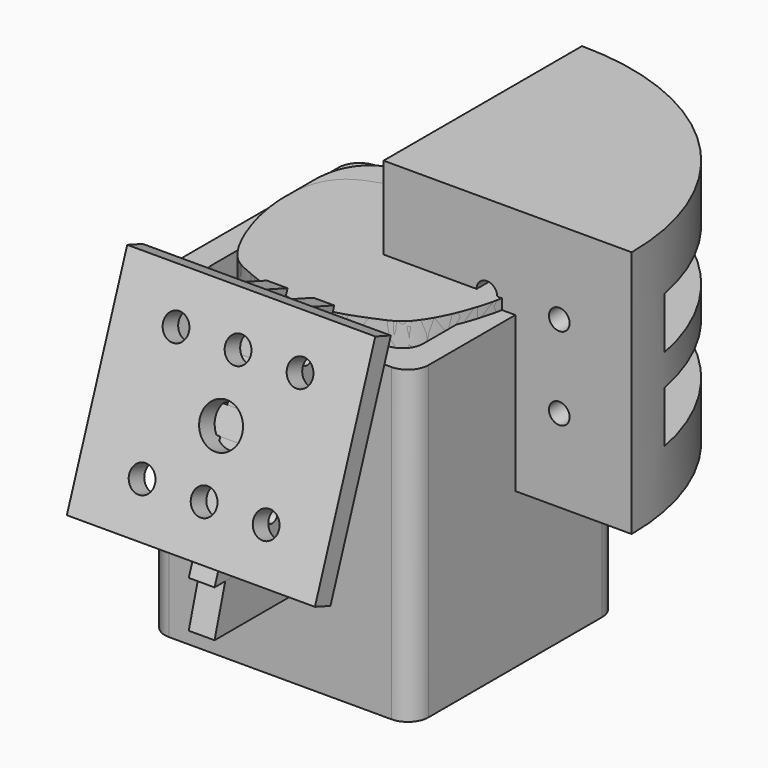
from build123d import *

# Parameters (mm, degrees)
SKETCH002_W          = 9.95
SKETCH002_H          = 9.95
PAD002_DEPTH         = 15
PAD003_DEPTH         = 7.475
PAD004_DEPTH         = 4.975
SKETCH006_R          = 2.4875
PAD005_DEPTH         = 4.975
POCKET001_DEPTH      = 9.9635001
POCKET001_DEPTH_BACK = 9.9635001
SKETCH005_W          = 7.95
SKETCH005_H          = 7.95
POCKET_DEPTH         = 15
POCKET002_DEPTH      = 3.975
POCKET003_DEPTH      = 4.9760001
POCKET003_DEPTH_BACK = 4.9760001
PAD006_DEPTH         = 30
PAD007_DEPTH         = 3.5
PAD008_DEPTH         = 5
PAD011_DEPTH         = 30
PAD012_DEPTH         = 2
SKETCH023_R          = 4.1
PAD013_DEPTH         = 8
PAD010_DEPTH         = 48
SKETCH016_R          = 2
POCKET004_DEPTH      = 48.001
SKETCH018_R          = 2
POCKET006_DEPTH      = 48.0010001
SKETCH020_W          = 48
SKETCH020_H          = 10
SKETCH020_W_2        = 48.0000000001
POCKET008_DEPTH      = 39.0010001
SKETCH029_W          = 66.744152
SKETCH029_H          = 62.918068
PAD014_DEPTH         = 30
SKETCH032_R          = 30.153164
PAD016_DEPTH         = 2
PAD_DEPTH            = 15
SKETCH030_W          = 87.575138
SKETCH030_H          = 88.99221
POCKET009_DEPTH      = 15.0010001
POCKET009_DEPTH_BACK = 32.001
SKETCH033_R          = 1.4
PAD017_DEPTH         = 2.5
PAD018_DEPTH         = 3.75
SKETCH035_W          = 48
SKETCH035_H          = 42.695698
SKETCH035_R          = 4.1
PAD019_DEPTH         = 4
SKETCH036_W          = 4
SKETCH036_H          = 41
SKETCH036_W_2        = 4.0000000001
PAD020_DEPTH         = 13
SKETCH037_R          = 1.4
POCKET010_DEPTH      = 24.001
POCKET010_DEPTH_BACK = 24.001
SKETCH038_R          = 2.5
SKETCH038_R_2        = 4.1
POCKET011_DEPTH      = 13.001
SKETCH050_W          = 28
SKETCH050_H          = 5
PAD029_DEPTH         = 16
SKETCH052_R          = 1.4
POCKET016_DEPTH      = 21.348849
POCKET016_DEPTH_BACK = 21.348849
POCKET017_DEPTH      = 12.001
SKETCH053_R          = 4.1
POCKET018_DEPTH      = 16.001
BODY_PLACEMENT_ANGLE = 250
SKETCH039_R          = 4.5
SKETCH039_R_2        = 2.5
PAD021_DEPTH         = 10
SKETCH040_R          = 4.05
PAD022_DEPTH         = 22
SKETCH041_W          = 24
SKETCH041_H          = 24
PAD023_DEPTH         = 4
SKETCH042_R          = 4.5
PAD024_DEPTH         = 14
SKETCH043_R          = 2.5
POCKET012_DEPTH      = 14.001
PAD025_DEPTH         = 32
POCKET013_DEPTH      = 30
SKETCH047_R          = 1.4
PAD027_DEPTH         = 2.5
SKETCH048_W          = 28
SKETCH048_H          = 5
PAD028_DEPTH         = 12
SKETCH049_R          = 1.4
POCKET014_DEPTH      = 35.3737033656
SKETCH054_W          = 24
SKETCH054_H          = 24
PAD030_DEPTH         = 2
SKETCH056_R          = 4.5
PAD031_DEPTH         = 10
SKETCH055_R          = 2.5
SKETCH055_R_2        = 4.1
POCKET019_DEPTH      = 10.001


with BuildPart() as garagedoorlowerprotection:
    # Sketch002 → Pad002 (new body)
    with BuildSketch(Plane.XY):
        Rectangle(SKETCH002_W, SKETCH002_H)
    extrude(amount=PAD002_DEPTH)

    # Sketch003 → Pad003 (join, symmetric)
    with BuildSketch(Plane.YZ):
        with BuildLine():
            ThreePointArc((-4.975, 0), (0, -4.975), (4.975, 0))
            Line((-4.975, 0), (4.975, 0))
        make_face()
    extrude(amount=PAD003_DEPTH, both=True)

    # Sketch004 → Pad004 (join, symmetric)
    with BuildSketch(Plane.XZ):
        with BuildLine():
            ThreePointArc((4.975, 8), (5.6145563086, 3.8092363464), (7.475, 0))
            Line((7.475, 0), (4.975, 0))
            Line((4.975, 0), (4.975, 8))
        make_face()
        with BuildLine():
            ThreePointArc((-7.475, 0), (-5.6145563086, 3.8092363464), (-4.975, 8))
            Line((-4.975, 0), (-4.975, 8))
            Line((-7.475, 0), (-4.975, 0))
        make_face()
    extrude(amount=PAD004_DEPTH, both=True)

    # Sketch006 → Pad005 (join, symmetric)
    with BuildSketch(Plane.XZ):
        with Locations((7.475, -2.4875)):
            Circle(SKETCH006_R)
        with Locations((-7.475, -2.4875)):
            Circle(SKETCH006_R)
    extrude(amount=PAD005_DEPTH, both=True)

    # Sketch007 → Pocket001 (cut, two sides)
    with BuildSketch(Plane.YZ) as pocket001_sk:
        with BuildLine():
            ThreePointArc((-4.975, 0), (0, -4.975), (4.975, 0))
            Line((4.975, 0), (4.975, -11.5))
            Line((-4.975, -11.5), (4.975, -11.5))
            Line((-4.975, 0), (-4.975, -11.5))
        make_face()
    extrude(amount=-POCKET001_DEPTH, mode=Mode.SUBTRACT)
    extrude(pocket001_sk.sketch, amount=POCKET001_DEPTH_BACK, mode=Mode.SUBTRACT)

    # Sketch005 → Pocket (cut)
    with BuildSketch(Plane.XY):
        Rectangle(SKETCH005_W, SKETCH005_H)
    extrude(amount=POCKET_DEPTH, mode=Mode.SUBTRACT)

    # Sketch008 → Pocket002 (cut, symmetric)
    with BuildSketch(Plane.YZ):
        with BuildLine():
            ThreePointArc((-3.975, 0), (0, -3.975), (3.975, 0))
            Line((-3.975, 0), (3.975, 0))
        make_face()
    extrude(amount=POCKET002_DEPTH, both=True, mode=Mode.SUBTRACT)

    # Sketch009 → Pocket003 (cut, two sides)
    with BuildSketch(Plane.XZ) as pocket003_sk:
        with BuildLine():
            ThreePointArc((4.975, 8), (7.1451686517, 0.5130052577), (12.9828700387, -4.6528407295))
            Line((4.975, 8), (12.9828700387, -4.6528407295))
        make_face()
        with BuildLine():
            ThreePointArc((-12.2964226869, -4.3043327764), (-6.9437888726, 0.8410923453), (-4.975, 8))
            Line((-12.2964226869, -4.3043327764), (-4.975, 8))
        make_face()
    extrude(amount=-POCKET003_DEPTH, mode=Mode.SUBTRACT)
    extrude(pocket003_sk.sketch, amount=POCKET003_DEPTH_BACK, mode=Mode.SUBTRACT)


with BuildPart() as obj1:
    # Sketch011 → Pad006 (new body)
    with BuildSketch(Plane.XY):
        with BuildLine():
            Line((-21.5, 25), (21.5, 25))
            ThreePointArc((25.5, 21), (24.3284271247, 23.8284271247), (21.5, 25))
            Line((25.5, 21), (25.5, -21))
            ThreePointArc((21.5, -25), (24.3284271247, -23.8284271247), (25.5, -21))
            Line((21.5, -25), (-21.5, -25))
            ThreePointArc((-25.5, -21), (-24.3284271247, -23.8284271247), (-21.5, -25))
            Line((-25.5, -21), (-25.5, 21))
            ThreePointArc((-21.5, 25), (-24.3284271247, 23.8284271247), (-25.5, 21))
        make_face()
        with BuildLine():
            Line((-16.5, 20), (16.5, 20))
            ThreePointArc((20.5, 16), (19.3284271247, 18.8284271247), (16.5, 20))
            Line((20.5, 16), (20.5, -16))
            ThreePointArc((16.5, -20), (19.3284271247, -18.8284271247), (20.5, -16))
            Line((16.5, -20), (-16.5, -20))
            ThreePointArc((-20.5, -16), (-19.3284271247, -18.8284271247), (-16.5, -20))
            Line((-20.5, -16), (-20.5, 16))
            ThreePointArc((-16.5, 20), (-19.3284271247, 18.8284271247), (-20.5, 16))
        make_face(mode=Mode.SUBTRACT)
    extrude(amount=PAD006_DEPTH)

    # Sketch012 → Pad007 (join, symmetric)
    with BuildSketch(Plane.YZ):
        Polygon((20, 4), (20, 0), (15, 0), (16, 1.5), (18, 1.5), (18, 4), align=None)
    extrude(amount=PAD007_DEPTH, both=True)

    # Sketch013 → Pad008 (join, symmetric)
    with BuildSketch(Plane.YZ):
        Polygon((45, 0), (60, 30), (25, 30), (25, 0), (25, -30), (30, -30), align=None)
    extrude(amount=PAD008_DEPTH, both=True)

    # Sketch021 → Pad011 (join)
    with BuildSketch(Plane.XY):
        with BuildLine():
            Line((-21.5, 25), (21.5, 25))
            ThreePointArc((25.5, 21), (24.3284271247, 23.8284271247), (21.5, 25))
            Line((25.5, 21), (25.5, -21))
            ThreePointArc((21.5, -25), (24.3284271247, -23.8284271247), (25.5, -21))
            Line((21.5, -25), (-21.5, -25))
            ThreePointArc((-25.5, -21), (-24.3284271247, -23.8284271247), (-21.5, -25))
            Line((-25.5, -21), (-25.5, 21))
            ThreePointArc((-21.5, 25), (-24.3284271247, 23.8284271247), (-25.5, 21))
        make_face()
        with BuildLine():
            Line((-16.5, 20), (16.5, 20))
            ThreePointArc((20.5, 16), (19.3284271247, 18.8284271247), (16.5, 20))
            Line((20.5, 16), (20.5, -16))
            ThreePointArc((16.5, -20), (19.3284271247, -18.8284271247), (20.5, -16))
            Line((16.5, -20), (-16.5, -20))
            ThreePointArc((-20.5, -16), (-19.3284271247, -18.8284271247), (-16.5, -20))
            Line((-20.5, -16), (-20.5, 16))
            ThreePointArc((-16.5, 20), (-19.3284271247, 18.8284271247), (-20.5, 16))
        make_face(mode=Mode.SUBTRACT)
    extrude(amount=-PAD011_DEPTH)

    # Sketch022 → Pad012 (join)
    with BuildSketch(Plane.XY.offset(-30)):
        with BuildLine():
            Line((-21.5, 25), (21.5, 25))
            ThreePointArc((25.5, 21), (24.3284271247, 23.8284271247), (21.5, 25))
            Line((25.5, 21), (25.5, -21))
            ThreePointArc((21.5, -25), (24.3284271247, -23.8284271247), (25.5, -21))
            Line((21.5, -25), (-21.5, -25))
            ThreePointArc((-25.5, -21), (-24.3284271247, -23.8284271247), (-21.5, -25))
            Line((-25.5, -21), (-25.5, 21))
            ThreePointArc((-21.5, 25), (-24.3284271247, 23.8284271247), (-25.5, 21))
        make_face()
    extrude(amount=PAD012_DEPTH)

    # Sketch023 (on Face50 of Pad012) → Pad013 (join)
    with BuildSketch(Plane(origin=(0, 36, -18), x_dir=(-1, 0, 0), z_dir=(0, 0.894427191, -0.4472135955))):
        with Locations((0, 16.773529)):
            Circle(SKETCH023_R)
    extrude(amount=PAD013_DEPTH)


with BuildPart() as obj2:
    # Sketch015 → Pad010 (new body)
    with BuildSketch(Plane.XY):
        with BuildLine():
            ThreePointArc((48, 0), (33.941125497, 33.941125497), (0, 48))
            Line((0, 0), (0, 48))
            Line((0, 0), (48, 0))
        make_face()
    extrude(amount=PAD010_DEPTH)

    # Sketch016 → Pocket004 (cut, through all)
    with BuildSketch(Plane.YZ):
        with Locations((20, 32)):
            Circle(SKETCH016_R)
        with Locations((20, 16)):
            Circle(SKETCH016_R)
        with Locations((34, 16)):
            Circle(SKETCH016_R)
        with Locations((34, 32)):
            Circle(SKETCH016_R)
    extrude(amount=POCKET004_DEPTH, mode=Mode.SUBTRACT)

    # Sketch018 → Pocket006 (cut, through all)
    with BuildSketch(Plane.XZ):
        with Locations((20, 32)):
            Circle(SKETCH018_R)
        with Locations((20, 16)):
            Circle(SKETCH018_R)
        with Locations((34, 32)):
            Circle(SKETCH018_R)
        with Locations((34, 16)):
            Circle(SKETCH018_R)
    extrude(amount=-POCKET006_DEPTH, mode=Mode.SUBTRACT)

    # Sketch020 → Pocket008 (cut, through all)
    with BuildSketch(Plane.XZ.offset(-9)):
        with Locations((33, 16)):
            Rectangle(SKETCH020_W, SKETCH020_H)
        with Locations((33, 32)):
            Rectangle(SKETCH020_W_2, SKETCH020_H)
    extrude(amount=-POCKET008_DEPTH, mode=Mode.SUBTRACT)


with BuildPart() as body004tightplug:
    # Sketch029 → Pad014 (new body)
    with BuildSketch(Plane.XY):
        with Locations((0.642714, 0.741932)):
            Rectangle(SKETCH029_W, SKETCH029_H)
        with BuildLine():
            Line((20.3857254409, 11.50742), (20.3857254409, 5.908789))
            add(Edge.make_bspline(
                [(0, -17.375688), (4.348665247, -17.2323080574), (7.9144602138, -16.0612178853), (11.2786879364, -14.6360750595), (14.4449827744, -13.2814661945), (17.4955979928, -8.2234823159), (19.0935358303, -3.4868500546), (19.7795745618, -1.0862360416), (20.4333195154, 3.1313446521), (20.4201201461, 5.2282090056), (20.3857254409, 5.908789)],
                knots=[0, 0, 0, 0, 0.0769230769, 0.1538461538, 0.2307692308, 0.3076923077, 0.3846153846, 0.4615384615, 0.5384615385, 0.5796555395, 0.5796555395, 0.5796555395, 0.5796555395], degree=3))
            add(Edge.make_bspline(
                [(0, -17.375688), (-4.3537494155, -17.2939807547), (-7.9198702493, -16.1227695323), (-11.2841244416, -14.6975735586), (-14.4447774183, -13.2707774131), (-17.4949790728, -8.2229954741), (-19.0944196376, -3.4865362564), (-19.8300140228, -1.0086451937), (-20.4525887168, 3.1413449012), (-20.4285672965, 5.2296446732), (-20.3910096637, 5.908789)],
                knots=[0, 0, 0, 0, 0.0769230769, 0.1538461538, 0.2307692308, 0.3076923077, 0.3846153846, 0.4615384615, 0.5384615385, 0.5796353256, 0.5796353256, 0.5796353256, 0.5796353256], degree=3))
            Line((-20.3910096637, 5.908789), (-20.3910096637, 11.50742))
            add(Edge.make_bspline(
                [(-20.3910096637, 11.50742), (-20.3689404644, 11.8766241703), (-20.2067890142, 13.3936194244), (-19.7923869938, 15.5854347447), (-17.5926260704, 19.0321267366), (-12.775825307, 20.914108288), (-8.2532732355, 22.0267245249), (-3.0888509555, 22.6830878444), (0, 22.624359)],
                knots=[0.5919978501, 0.5919978501, 0.5919978501, 0.5919978501, 0.6153846154, 0.6923076923, 0.7692307692, 0.8461538462, 0.9230769231, 1, 1, 1, 1], degree=3))
            add(Edge.make_bspline(
                [(20.3857254409, 11.50742), (20.2692466743, 11.8766627457), (20.1134811354, 13.3927747536), (19.7076130062, 15.5849945807), (17.4941862521, 19.0316917206), (12.6776905427, 20.913821896), (8.1550219979, 22.0265839621), (2.990224294, 22.6830465725), (0, 22.624359)],
                knots=[0.5920057623, 0.5920057623, 0.5920057623, 0.5920057623, 0.6153846154, 0.6923076923, 0.7692307692, 0.8461538462, 0.9230769231, 1, 1, 1, 1], degree=3))
        make_face(mode=Mode.SUBTRACT)
    extrude(amount=PAD014_DEPTH)

    # Sketch032 → Pad016 (join)
    with BuildSketch(Plane.XY.offset(30)):
        Circle(SKETCH032_R)
    extrude(amount=PAD016_DEPTH)

    # Sketch029 → Pad (join)
    with BuildSketch(Plane.XY):
        with Locations((0.642714, 0.741932)):
            Rectangle(SKETCH029_W, SKETCH029_H)
        with BuildLine():
            Line((20.3857254409, 11.50742), (20.3857254409, 5.908789))
            add(Edge.make_bspline(
                [(0, -17.375688), (4.348665247, -17.2323080574), (7.9144602138, -16.0612178853), (11.2786879364, -14.6360750595), (14.4449827744, -13.2814661945), (17.4955979928, -8.2234823159), (19.0935358303, -3.4868500546), (19.7795745618, -1.0862360416), (20.4333195154, 3.1313446521), (20.4201201461, 5.2282090056), (20.3857254409, 5.908789)],
                knots=[0, 0, 0, 0, 0.0769230769, 0.1538461538, 0.2307692308, 0.3076923077, 0.3846153846, 0.4615384615, 0.5384615385, 0.5796555395, 0.5796555395, 0.5796555395, 0.5796555395], degree=3))
            add(Edge.make_bspline(
                [(0, -17.375688), (-4.3537494155, -17.2939807547), (-7.9198702493, -16.1227695323), (-11.2841244416, -14.6975735586), (-14.4447774183, -13.2707774131), (-17.4949790728, -8.2229954741), (-19.0944196376, -3.4865362564), (-19.8300140228, -1.0086451937), (-20.4525887168, 3.1413449012), (-20.4285672965, 5.2296446732), (-20.3910096637, 5.908789)],
                knots=[0, 0, 0, 0, 0.0769230769, 0.1538461538, 0.2307692308, 0.3076923077, 0.3846153846, 0.4615384615, 0.5384615385, 0.5796353256, 0.5796353256, 0.5796353256, 0.5796353256], degree=3))
            Line((-20.3910096637, 5.908789), (-20.3910096637, 11.50742))
            add(Edge.make_bspline(
                [(-20.3910096637, 11.50742), (-20.3689404644, 11.8766241703), (-20.2067890142, 13.3936194244), (-19.7923869938, 15.5854347447), (-17.5926260704, 19.0321267366), (-12.775825307, 20.914108288), (-8.2532732355, 22.0267245249), (-3.0888509555, 22.6830878444), (0, 22.624359)],
                knots=[0.5919978501, 0.5919978501, 0.5919978501, 0.5919978501, 0.6153846154, 0.6923076923, 0.7692307692, 0.8461538462, 0.9230769231, 1, 1, 1, 1], degree=3))
            add(Edge.make_bspline(
                [(20.3857254409, 11.50742), (20.2692466743, 11.8766627457), (20.1134811354, 13.3927747536), (19.7076130062, 15.5849945807), (17.4941862521, 19.0316917206), (12.6776905427, 20.913821896), (8.1550219979, 22.0265839621), (2.990224294, 22.6830465725), (0, 22.624359)],
                knots=[0.5920057623, 0.5920057623, 0.5920057623, 0.5920057623, 0.6153846154, 0.6923076923, 0.7692307692, 0.8461538462, 0.9230769231, 1, 1, 1, 1], degree=3))
        make_face(mode=Mode.SUBTRACT)
    extrude(amount=-PAD_DEPTH)

    # Sketch030 → Pocket009 (cut, two sides)
    with BuildSketch(Plane.XY) as pocket009_sk:
        with Locations((-1.048483, 1.074173)):
            Rectangle(SKETCH030_W, SKETCH030_H)
        with BuildLine():
            Line((23.443584257, 13.233533), (23.443584257, 6.79510735))
            add(Edge.make_bspline(
                [(0, -19.9820412), (5.0009650341, -19.8171542661), (9.1016292458, -18.4704005681), (12.9704911269, -16.8314863184), (16.6117301905, -15.2736861236), (20.1199376917, -9.4570046633), (21.9575662048, -4.0098775628), (22.746510746, -1.2491714478), (23.4983174427, 3.60104635), (23.483138168, 6.0124403564), (23.443584257, 6.79510735)],
                knots=[0, 0, 0, 0, 0.0769230769, 0.1538461538, 0.2307692308, 0.3076923077, 0.3846153846, 0.4615384615, 0.5384615385, 0.5796555395, 0.5796555395, 0.5796555395, 0.5796555395], degree=3))
            add(Edge.make_bspline(
                [(0, -19.9820412), (-5.0068118279, -19.8880778679), (-9.1078507866, -18.5411849621), (-12.9767431079, -16.9022095924), (-16.611494031, -15.2613940251), (-20.1192259337, -9.4564447953), (-21.9585825832, -4.0095166949), (-22.8045161262, -1.1599419727), (-23.5204770243, 3.6125466363), (-23.492852391, 6.0140913742), (-23.4496611132, 6.79510735)],
                knots=[0, 0, 0, 0, 0.0769230769, 0.1538461538, 0.2307692308, 0.3076923077, 0.3846153846, 0.4615384615, 0.5384615385, 0.5796353256, 0.5796353256, 0.5796353256, 0.5796353256], degree=3))
            Line((-23.4496611132, 6.79510735), (-23.4496611132, 13.233533))
            add(Edge.make_bspline(
                [(-23.4496611132, 13.233533), (-23.4242815341, 13.6581177959), (-23.2378073663, 15.402662338), (-22.7612450429, 17.9232499564), (-20.2315199809, 21.8869457471), (-14.6921991031, 24.0512245312), (-9.4912642208, 25.3307332036), (-3.5521785989, 26.0855510211), (0, 26.01801285)],
                knots=[0.5919978501, 0.5919978501, 0.5919978501, 0.5919978501, 0.6153846154, 0.6923076923, 0.7692307692, 0.8461538462, 0.9230769231, 1, 1, 1, 1], degree=3))
            add(Edge.make_bspline(
                [(23.443584257, 13.233533), (23.3096336754, 13.6581621576), (23.1305033058, 15.4016909666), (22.6637549571, 17.9227437677), (20.11831419, 21.8864454786), (14.5793441241, 24.0508951804), (9.3782752976, 25.3305715565), (3.4387579381, 26.0855035584), (0, 26.01801285)],
                knots=[0.5920057623, 0.5920057623, 0.5920057623, 0.5920057623, 0.6153846154, 0.6923076923, 0.7692307692, 0.8461538462, 0.9230769231, 1, 1, 1, 1], degree=3))
        make_face(mode=Mode.SUBTRACT)
    extrude(amount=-POCKET009_DEPTH, mode=Mode.SUBTRACT)
    extrude(pocket009_sk.sketch, amount=POCKET009_DEPTH_BACK, mode=Mode.SUBTRACT)

    # Sketch033 → Pad017 (join, symmetric)
    with BuildSketch(Plane.YZ):
        Polygon((-44, -15), (-30.5359866973, 32), (-19, 32), (-19, 0), (-19, -15), align=None)
        with Locations((-29.1587361797, 18.6517023332)):
            Circle(SKETCH033_R, mode=Mode.SUBTRACT)
        with Locations((-36.0435180215, -5.3816032861)):
            Circle(SKETCH033_R, mode=Mode.SUBTRACT)
    extrude(amount=PAD017_DEPTH, both=True)

    # Sketch031 → Pad018 (join, symmetric)
    with BuildSketch(Plane.YZ):
        Polygon((-18, 4), (-18, 0), (-15, 0), (-12, 4), align=None)
    extrude(amount=PAD018_DEPTH, both=True)


with BuildPart() as bodybase:
    # Sketch035 → Pad019 (new body)
    with BuildSketch(Plane.XY):
        Rectangle(SKETCH035_W, SKETCH035_H)
        Circle(SKETCH035_R, mode=Mode.SUBTRACT)
    extrude(amount=PAD019_DEPTH)

    # Sketch036 → Pad020 (join)
    with BuildSketch(Plane.XY):
        with Locations((-4.515, 0)):
            Rectangle(SKETCH036_W, SKETCH036_H)
        with Locations((4.515, 0)):
            Rectangle(SKETCH036_W_2, SKETCH036_H)
    extrude(amount=PAD020_DEPTH)

    # Sketch037 → Pocket010 (cut, two sides)
    with BuildSketch(Plane.YZ) as pocket010_sk:
        with Locations((12.5, 9)):
            Circle(SKETCH037_R)
        with Locations((-12.5, 9)):
            Circle(SKETCH037_R)
    extrude(amount=-POCKET010_DEPTH, mode=Mode.SUBTRACT)
    extrude(pocket010_sk.sketch, amount=POCKET010_DEPTH_BACK, mode=Mode.SUBTRACT)

    # Sketch038 → Pocket011 (cut, through all)
    with BuildSketch(Plane.XY):
        with Locations((0, -12)):
            Circle(SKETCH038_R)
        with Locations((12, 12)):
            Circle(SKETCH038_R)
        with Locations((-12, 12)):
            Circle(SKETCH038_R)
        with Locations((-12, -12)):
            Circle(SKETCH038_R)
        with Locations((12, -12)):
            Circle(SKETCH038_R)
        with Locations((0, 12)):
            Circle(SKETCH038_R)
        Circle(SKETCH038_R_2)
    extrude(amount=POCKET011_DEPTH, mode=Mode.SUBTRACT)

    # Sketch050 → Pad029 (join)
    with BuildSketch(Plane.XY):
        with Locations((0, 5.015)):
            Rectangle(SKETCH050_W, SKETCH050_H)
        with Locations((0, -5.015)):
            Rectangle(SKETCH050_W, SKETCH050_H)
    extrude(amount=PAD029_DEPTH)

    # Sketch052 → Pocket016 (cut, two sides)
    with BuildSketch(Plane.XZ) as pocket016_sk:
        with Locations((-11, 10)):
            Circle(SKETCH052_R)
        with Locations((11, 10)):
            Circle(SKETCH052_R)
    extrude(amount=-POCKET016_DEPTH, mode=Mode.SUBTRACT)
    extrude(pocket016_sk.sketch, amount=POCKET016_DEPTH_BACK, mode=Mode.SUBTRACT)

    # Sketch051 → Pocket017 (cut, through all)
    with BuildSketch(Plane.XY.offset(4)):
        Polygon((-6.515, 2.515), (-6.515, -2.515), (-2.515, -2.515), (-2.515, -7.515), (2.515, -7.515), (2.515, -2.515), (6.515, -2.515), (6.515, 2.515), (2.515, 2.515), (2.515, 7.515), (-2.515, 7.515), (-2.515, 2.515), align=None)
    extrude(amount=POCKET017_DEPTH, mode=Mode.SUBTRACT)

    # Sketch053 → Pocket018 (cut, through all)
    with BuildSketch(Plane.XY):
        Circle(SKETCH053_R)
    extrude(amount=POCKET018_DEPTH, mode=Mode.SUBTRACT)


with BuildPart() as bodybase_1:
    # Body placement: moved
    add(bodybase.part.moved(Location((0, -39.3, 18.8))).rotate(Axis((0, -39.3, 18.8), (1, 0, 0)), BODY_PLACEMENT_ANGLE))


with BuildPart() as bodysupportrod:
    # Sketch039 → Pad021 (new body)
    with BuildSketch(Plane.XY):
        Circle(SKETCH039_R)
        Circle(SKETCH039_R_2, mode=Mode.SUBTRACT)
    extrude(amount=PAD021_DEPTH)


with BuildPart() as bodycenterrod:
    # Sketch040 → Pad022 (new body)
    with BuildSketch(Plane.XY):
        Circle(SKETCH040_R)
    extrude(amount=PAD022_DEPTH)


with BuildPart() as obj3:
    # Sketch041 → Pad023 (new body)
    with BuildSketch(Plane.XY):
        Rectangle(SKETCH041_W, SKETCH041_H)
    extrude(amount=PAD023_DEPTH)

    # Sketch042 → Pad024 (join)
    with BuildSketch(Plane.XY):
        with Locations((-12, 12)):
            Circle(SKETCH042_R)
        with Locations((12, 12)):
            Circle(SKETCH042_R)
        with Locations((-12, -12)):
            Circle(SKETCH042_R)
        with Locations((12, -12)):
            Circle(SKETCH042_R)
    extrude(amount=PAD024_DEPTH)

    # Sketch043 → Pocket012 (cut, through all)
    with BuildSketch(Plane.XY):
        with Locations((-12, 12)):
            Circle(SKETCH043_R)
        with Locations((12, 12)):
            Circle(SKETCH043_R)
        with Locations((-12, -12)):
            Circle(SKETCH043_R)
        with Locations((12, -12)):
            Circle(SKETCH043_R)
    extrude(amount=POCKET012_DEPTH, mode=Mode.SUBTRACT)


with BuildPart() as obj4:
    # Sketch045 → Pad025 (new body)
    with BuildSketch(Plane(origin=(0, 0, 0), x_dir=(-1, 0, 0), z_dir=(0, 0, 1))):
        with BuildLine():
            add(Edge.make_bspline(
                [(0, 19.9820412), (5.0068113282, 19.8880777849), (9.1078539291, 18.5411855366), (12.9767448505, 16.9022096977), (16.6113288197, 15.2613653783), (20.1204307035, 9.4566640989), (21.9578487549, 4.0093077754), (22.7466491359, 1.2485450675), (23.6361209372, -4.4902932635), (23.3282827322, -8.890612167), (22.7043228857, -12.1732314977), (20.1746514921, -16.1368979262), (14.6353878303, -18.3011688824), (9.4344434984, -19.5806792655), (3.495357944, -20.3354970184), (0, -20.292622)],
                knots=[0, 0, 0, 0, 0.0769230769, 0.1538461538, 0.2307692308, 0.3076923077, 0.3846153846, 0.4615384615, 0.5384615385, 0.6153846154, 0.6923076923, 0.7692307692, 0.8461538462, 0.9230769231, 1, 1, 1, 1], degree=3))
            add(Edge.make_bspline(
                [(0, 19.9820412), (-5.0009650341, 19.8171542661), (-9.1016292459, 18.4704005681), (-12.9704911267, 16.8314863184), (-16.6117301911, 15.2736861236), (-20.1199376933, 9.4570046633), (-21.9575661639, 4.0098775628), (-22.7465109856, 1.2491714478), (-23.6360399197, -4.4895495411), (-23.3283254596, -8.8899621513), (-22.7206771143, -12.1726897177), (-20.1751196861, -16.1363914286), (-14.636164754, -18.3008411304), (-9.4350959116, -19.5805175065), (-3.4955782408, -20.3354495084), (0, -20.292622)],
                knots=[0, 0, 0, 0, 0.0769230769, 0.1538461538, 0.2307692308, 0.3076923077, 0.3846153846, 0.4615384615, 0.5384615385, 0.6153846154, 0.6923076923, 0.7692307692, 0.8461538462, 0.9230769231, 1, 1, 1, 1], degree=3))
        make_face()
    extrude(amount=PAD025_DEPTH)

    # Sketch044 → Pocket013 (cut)
    with BuildSketch(Plane.XY):
        with BuildLine():
            add(Edge.make_bspline(
                [(0, -17.375688), (-4.3537489811, -17.2939806825), (-7.9198729818, -16.1227700318), (-11.284125957, -14.6975736502), (-14.4446337562, -13.2707525029), (-17.4960266987, -8.223186173), (-19.093781526, -3.4863545873), (-19.7796949007, -1.085691363), (-20.5531486411, 3.9046028378), (-20.2854632454, 7.7309671018), (-19.7428894658, 10.5854186937), (-17.5431752105, 14.0320851532), (-12.7264242002, 15.9140598978), (-8.2038639117, 17.0266776222), (-3.0394416904, 17.6830408856), (0, 17.624312)],
                knots=[0, 0, 0, 0, 0.0769230769, 0.1538461538, 0.2307692308, 0.3076923077, 0.3846153846, 0.4615384615, 0.5384615385, 0.6153846154, 0.6923076923, 0.7692307692, 0.8461538462, 0.9230769231, 1, 1, 1, 1], degree=3))
            add(Edge.make_bspline(
                [(0, -17.375688), (4.348665247, -17.2323080574), (7.9144602138, -16.0612178853), (11.2786879363, -14.6360750595), (14.4449827749, -13.2814661945), (17.4955979941, -8.2234823159), (19.0935357947, -3.4868500546), (19.7795747701, -1.0862360416), (20.5530781911, 3.9039561227), (20.2855003997, 7.7304018707), (19.7571105342, 10.5849475807), (17.5435823358, 14.0316447206), (12.7270997861, 15.913774896), (8.2044312275, 17.0265369621), (3.0396332529, 17.6829995725), (0, 17.624312)],
                knots=[0, 0, 0, 0, 0.0769230769, 0.1538461538, 0.2307692308, 0.3076923077, 0.3846153846, 0.4615384615, 0.5384615385, 0.6153846154, 0.6923076923, 0.7692307692, 0.8461538462, 0.9230769231, 1, 1, 1, 1], degree=3))
        make_face()
    extrude(amount=POCKET013_DEPTH, mode=Mode.SUBTRACT)

    # Sketch047 → Pad027 (join, symmetric)
    with BuildSketch(Plane.YZ):
        Polygon((-44, -6), (-30.1691310979, 32), (-19, 32), (-19, -6), align=None)
        with Locations((-26.5352489915, 27.3649870316)):
            Circle(SKETCH047_R, mode=Mode.SUBTRACT)
        with Locations((-35.0857525746, 3.8726715119)):
            Circle(SKETCH047_R, mode=Mode.SUBTRACT)
    extrude(amount=PAD027_DEPTH, both=True)

    # Sketch048 → Pad028 (join)
    with BuildSketch(Plane(origin=(0, -41.82, 0), x_dir=(1, 0, 0), z_dir=(0, -0.9396926208, 0.3420201433))):
        with Locations((0, 18.4423691121)):
            Rectangle(SKETCH048_W, SKETCH048_H)
    extrude(amount=-PAD028_DEPTH)

    # Sketch049 (on Face11 of Pad028) → Pocket014 (cut, through all)
    with BuildSketch(Plane(origin=(0, 0.5606006743, 1.5402376939), x_dir=(-1, 0, 0), z_dir=(0, -0.3420201433, -0.9396926208))):
        with Locations((-11, -33.2979454013)):
            Circle(SKETCH049_R)
        with Locations((11, -33.2979454013)):
            Circle(SKETCH049_R)
    extrude(amount=-POCKET014_DEPTH, mode=Mode.SUBTRACT)


with BuildPart() as bodylegplate:
    # Sketch054 → Pad030 (new body)
    with BuildSketch(Plane.XY):
        Rectangle(SKETCH054_W, SKETCH054_H)
    extrude(amount=PAD030_DEPTH)

    # Sketch056 → Pad031 (join)
    with BuildSketch(Plane.XY):
        with Locations((12, 12)):
            Circle(SKETCH056_R)
        with Locations((-12, 12)):
            Circle(SKETCH056_R)
        with Locations((-12, -12)):
            Circle(SKETCH056_R)
        with Locations((12, -12)):
            Circle(SKETCH056_R)
    extrude(amount=PAD031_DEPTH)

    # Sketch055 → Pocket019 (cut, through all)
    with BuildSketch(Plane.XY):
        with Locations((12, 12)):
            Circle(SKETCH055_R)
        with Locations((-12, 12)):
            Circle(SKETCH055_R)
        with Locations((-12, -12)):
            Circle(SKETCH055_R)
        with Locations((12, -12)):
            Circle(SKETCH055_R)
        Circle(SKETCH055_R_2)
    extrude(amount=POCKET019_DEPTH, mode=Mode.SUBTRACT)


solid = Compound([garagedoorlowerprotection.part, obj1.part, obj2.part, body004tightplug.part, bodybase_1.part, bodysupportrod.part, bodycenterrod.part, obj3.part, obj4.part, bodylegplate.part])
